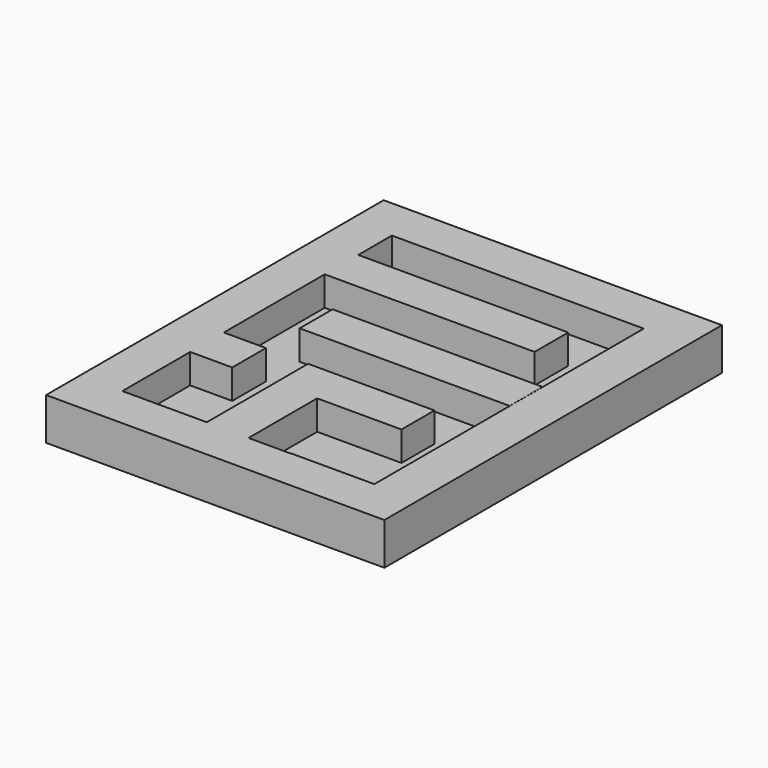
from build123d import *

# Parameters (mm, degrees)
SKETCH_W        = 80.388924
SKETCH_H        = 100.266922
PAD_DEPTH       = 10
SKETCH001_W     = 59.869847
SKETCH001_H     = 80.043388
POCKET_DEPTH    = 7
PAD001_DEPTH    = 7
SKETCH003_W     = 9.99672
SKETCH003_H     = 9.996716
PAD002_DEPTH    = 7
PAD003_DEPTH    = 7
SKETCH005_W     = 9.982618
SKETCH005_H     = 10.285692
POCKET001_DEPTH = 12
SKETCH007_W     = 49.912157
SKETCH007_H     = 9.781489
PAD004_DEPTH    = 7


with BuildPart() as part:
    # Sketch → Pad (new body)
    with BuildSketch(Plane.XY):
        with Locations((0.088505, -0.194969)):
            Rectangle(SKETCH_W, SKETCH_H)
    extrude(amount=PAD_DEPTH)

    # Sketch001 (on Face6 of Pad) → Pocket (cut)
    with BuildSketch(Plane.XY.offset(10)):
        with Locations((-0.108458, -0.216919)):
            Rectangle(SKETCH001_W, SKETCH001_H)
    extrude(amount=-POCKET_DEPTH, mode=Mode.SUBTRACT)

    # Sketch002 (on Face5 of Pocket) → Pad001 (join)
    with BuildSketch(Plane.XY.offset(10)):
        Polygon((-30.043381, 29.826462), (19.84816, 29.826462), (19.84816, 19.848156), (-30.2603, 19.848156), align=None)
    extrude(amount=-PAD001_DEPTH)

    # Sketch003 (on Face5 of Pad001) → Pad002 (join)
    with BuildSketch(Plane.XY.offset(10)):
        with Locations((-25.052227, -15.099422)):
            Rectangle(SKETCH003_W, SKETCH003_H)
    extrude(amount=-PAD002_DEPTH)

    # Sketch004 (on Face5 of Pad002) → Pad003 (join)
    with BuildSketch(Plane.XY.offset(10)):
        Polygon((-9.987769, -10.147002), (20.039965, -10.147002), (20.039965, -19.946848), (0, -19.946848), (0, -40.300377), (-9.987769, -40.300377), align=None)
    extrude(amount=-PAD003_DEPTH)

    # Sketch005 (on Face5 of Pad003) → Pocket001 (cut)
    with BuildSketch(Plane.XY.offset(10)):
        with Locations((4.991309, -35.186328)):
            Rectangle(SKETCH005_W, SKETCH005_H)
    extrude(amount=-POCKET001_DEPTH, mode=Mode.SUBTRACT)

    # Sketch007 (on Face5 of Pocket001) → Pad004 (join)
    with BuildSketch(Plane.XY.offset(10)):
        with Locations((4.839608, 4.890744)):
            Rectangle(SKETCH007_W, SKETCH007_H)
    extrude(amount=-PAD004_DEPTH)


solid = part.part
